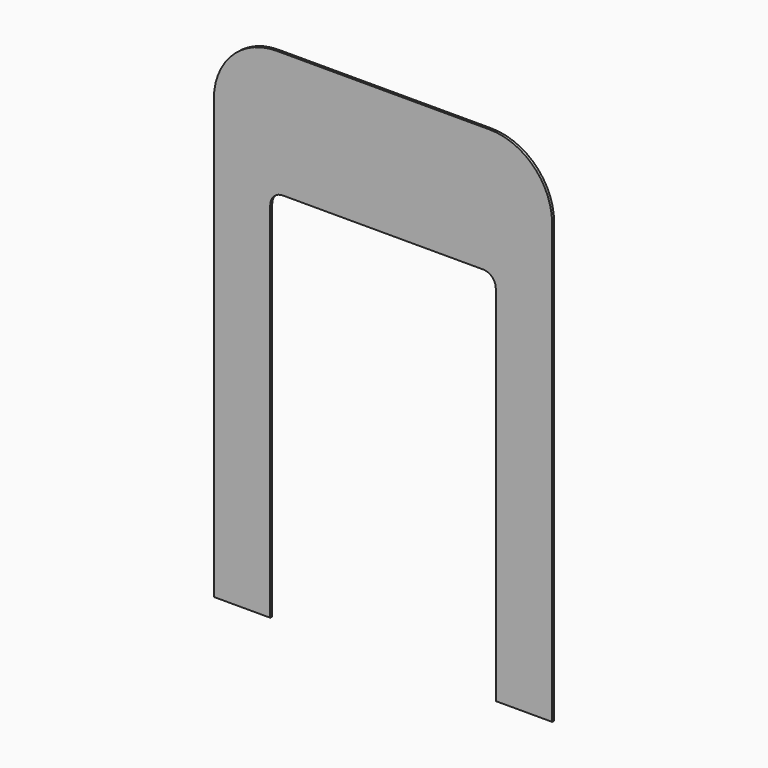
from build123d import *

# Parameters (mm, degrees)
F1_DEPTH = 2


with BuildPart() as f1:
    # F0 (on Front) → F1 (new body)
    with BuildSketch(Plane.XZ):
        with BuildLine():
            Line((85, 0), (0, 0))
            Line((0, 0), (-85, 0))
            ThreePointArc((-85, 0), (-120.355339, -14.644661), (-135, -50))
            Line((-135, -50), (-135, -400))
            Line((-135, -400), (-90, -400))
            Line((-90, -400), (-90, -110))
            ThreePointArc((-90, -110), (-87.071068, -102.928932), (-80, -100))
            Line((-80, -100), (0, -100))
            Line((0, -100), (80, -100))
            ThreePointArc((80, -100), (87.071068, -102.928932), (90, -110))
            Line((90, -110), (90, -400))
            Line((90, -400), (135, -400))
            Line((135, -400), (135, -50))
            ThreePointArc((135, -50), (120.355339, -14.644661), (85, 0))
        make_face()
    extrude(amount=F1_DEPTH)


solid = f1.part
